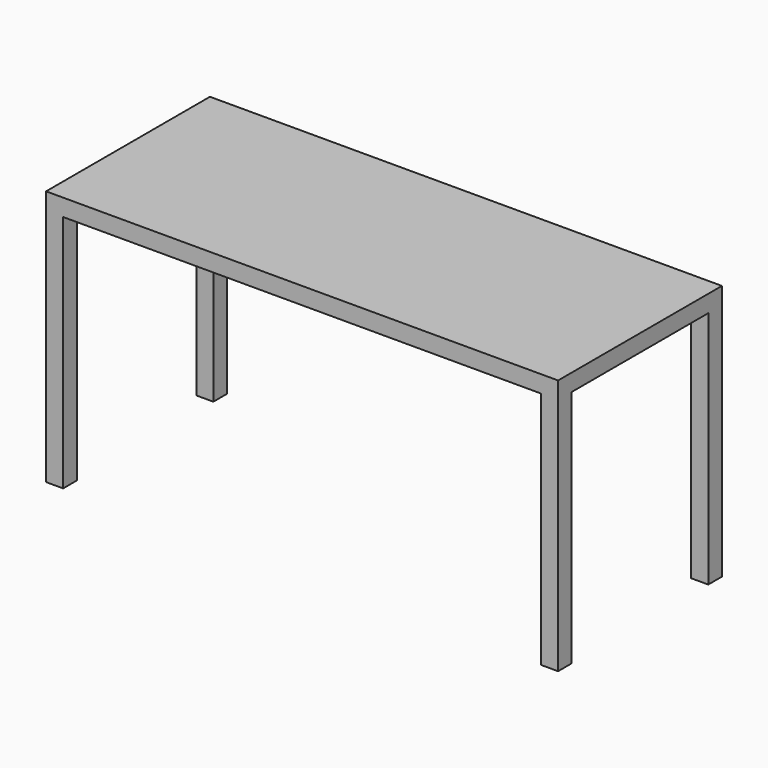
from build123d import *

# Parameters (mm, degrees)
F0_W     = 1500
F0_H     = 600
F1_DEPTH = 50
F2_W     = 50
F2_H     = 50
F3_DEPTH = 700


with BuildPart() as f1:
    # F0 (on Top) → F1 (new body)
    with BuildSketch(Plane.XY):
        with Locations((750, 300)):
            Rectangle(F0_W, F0_H)
    extrude(amount=F1_DEPTH)

    # F2 (on face) → F3 (join)
    with BuildSketch(Plane(origin=(0, 0, 0), x_dir=(1, 0, 0), z_dir=(0, 0, -1))):
        with Locations((25, -25)):
            Rectangle(F2_W, F2_H)
        with Locations((25, -575)):
            Rectangle(F2_W, F2_H)
        with Locations((1475, -575)):
            Rectangle(F2_W, F2_H)
        with Locations((1475, -25)):
            Rectangle(F2_W, F2_H)
    extrude(amount=F3_DEPTH)


solid = f1.part
